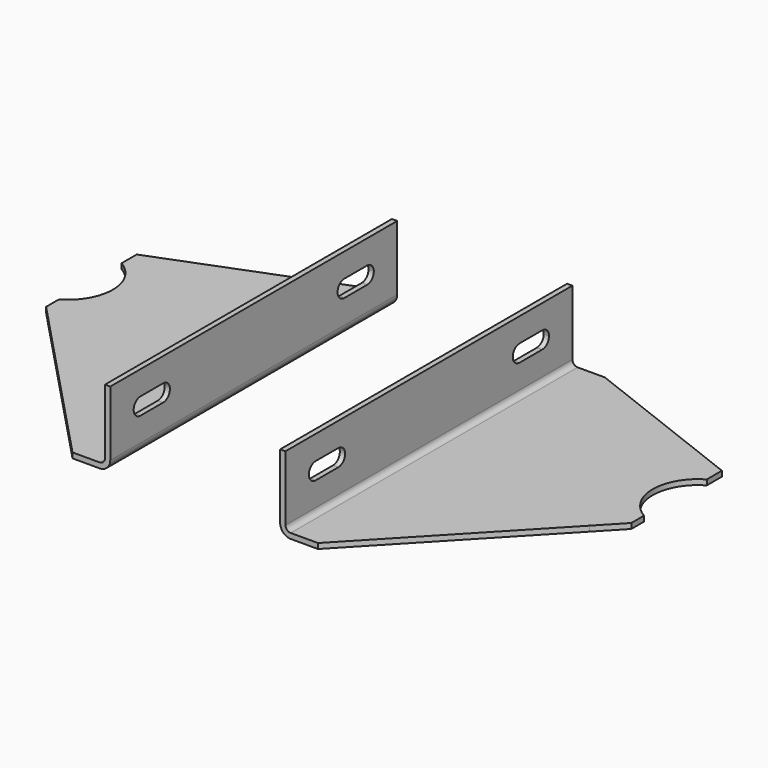
from build123d import *

# Parameters (mm, degrees)
F1_DEPTH = 190
F2_R     = 24
F3_DEPTH = 3
F5_DEPTH = 3


with BuildPart() as f1:
    # F0 (on Front) → F1 (new body)
    with BuildSketch(Plane.XZ):
        with BuildLine():
            Line((-55, 0), (0, 0))
            Line((0, 0), (49.4, 0))
            ThreePointArc((49.4, 0), (53.359798, 1.640202), (55, 5.6))
            Line((55, 5.6), (55, 40))
            Line((55, 40), (52.2, 40))
            Line((52.2, 40), (52.2, 5.6))
            ThreePointArc((52.2, 5.6), (51.379899, 3.620101), (49.4, 2.8))
            Line((49.4, 2.8), (0, 2.8))
            Line((0, 2.8), (-55, 2.8))
            Line((-55, 2.8), (-55, 0))
        make_face()
    extrude(amount=F1_DEPTH)

    # F2 (on face) → F3 (cut)
    with BuildSketch(Plane.XY.offset(2.8)):
        Polygon((-43, 0), (-55, 0), (-55, -35), (-43, -30.333333), align=None)
        Polygon((35, -190), (-43, -107.666667), (-43, -190), align=None)
        Polygon((-43, -190), (-43, -107.666667), (-55, -95), (-55, -190), align=None)
        with Locations((-67, -65.8)):
            Circle(F2_R)
        Polygon((35, 0), (-43, 0), (-43, -30.333333), align=None)
    extrude(amount=-F3_DEPTH, mode=Mode.SUBTRACT)

    # F4 (on face) → F5 (cut)
    with BuildSketch(Plane.YZ.offset(55)):
        with BuildLine():
            Line((-35, 18.3), (-20, 18.3))
            ThreePointArc((-20, 18.3), (-16.818019, 19.618019), (-15.5, 22.8))
            ThreePointArc((-15.5, 22.8), (-16.818019, 25.981981), (-20, 27.3))
            Line((-20, 27.3), (-35, 27.3))
            ThreePointArc((-35, 27.3), (-39.5, 22.8), (-35, 18.3))
        make_face()
        with BuildLine():
            Line((-170, 18.3), (-155, 18.3))
            ThreePointArc((-155, 18.3), (-150.5, 22.8), (-155, 27.3))
            Line((-155, 27.3), (-170, 27.3))
            ThreePointArc((-170, 27.3), (-174.5, 22.8), (-170, 18.3))
        make_face()
    extrude(amount=-F5_DEPTH, mode=Mode.SUBTRACT)


with BuildPart() as f7_1:
    # F7: instance of F1
    add(f1.part.mirror(Plane.YZ.offset(100)))


solid = Compound([f1.part, f7_1.part])
